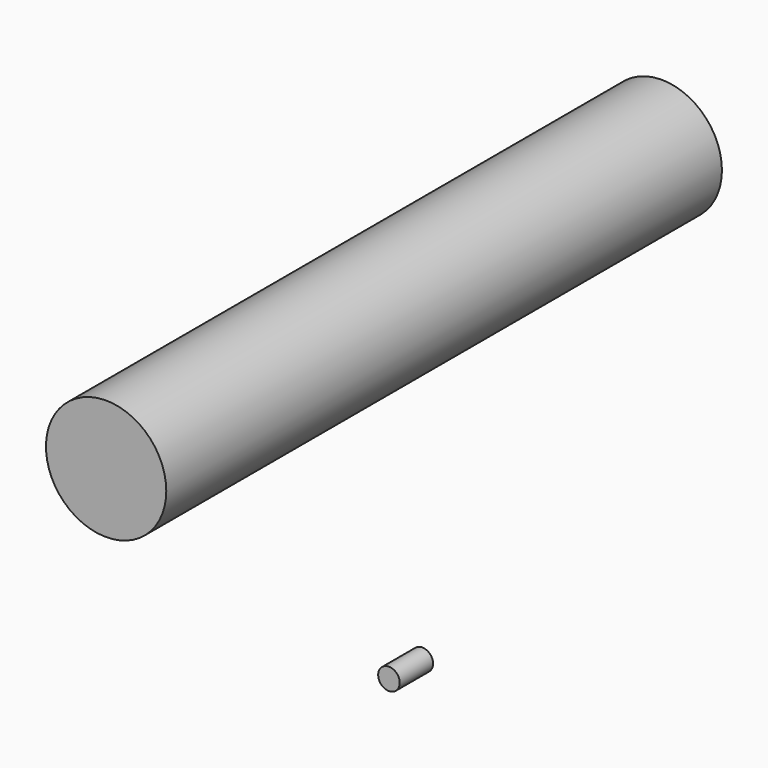
from build123d import *

# Parameters (mm, degrees)
F0_R     = 10.9982
F1_DEPTH = 127
F0_R_2   = 1.9685
F2_DEPTH = 7.62


with BuildPart() as f1:
    # F0 (on Front) → F1 (new body)
    with BuildSketch(Plane.XZ):
        with Locations((-17.283352, 12.068547)):
            Circle(F0_R)
    extrude(amount=-F1_DEPTH)


with BuildPart() as f2:
    # F0 (on Front) → F2 (new body)
    with BuildSketch(Plane.XZ):
        with Locations((40.526483, 0.148994)):
            Circle(F0_R_2)
    extrude(amount=F2_DEPTH)


solid = Compound([f1.part, f2.part])
